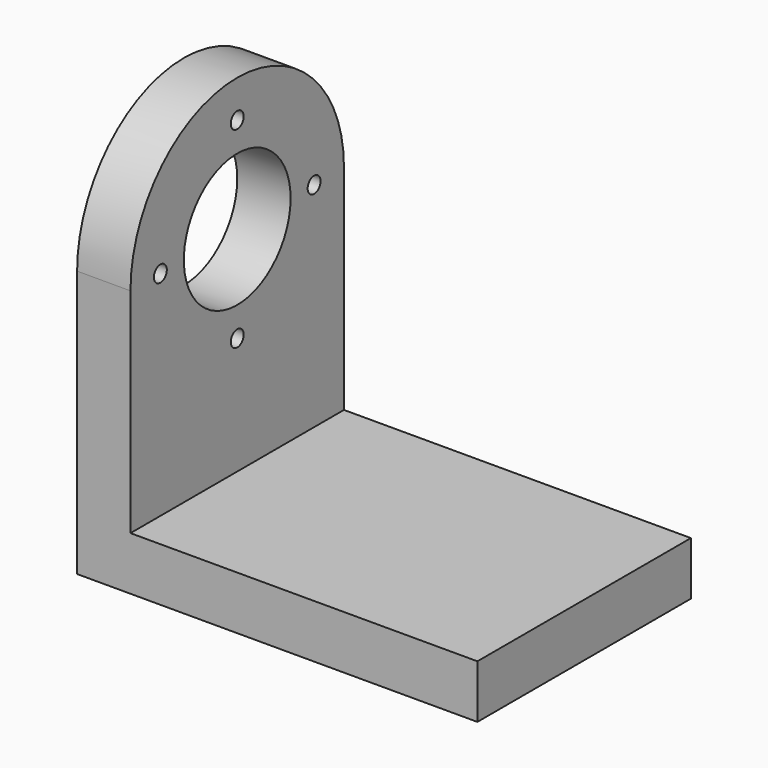
from build123d import *

# Parameters (mm, degrees)
F0_W     = 300
F0_H     = 40
F1_DEPTH = 200
F2_W     = 40
F2_H     = 200
F3_DEPTH = 260
F5_DEPTH = 40.001
F6_R     = 50
F7_DEPTH = 40.001
F8_D     = 12.1


with BuildPart() as f1:
    # F0 (on Front) → F1 (new body)
    with BuildSketch(Plane.XZ):
        with Locations((22.9622232423, 20)):
            Rectangle(F0_W, F0_H)
    extrude(amount=F1_DEPTH)

    # F2 (on face) → F3 (join)
    with BuildSketch(Plane.XY.offset(40)):
        with Locations((-107.0377767577, -100)):
            Rectangle(F2_W, F2_H)
    extrude(amount=F3_DEPTH)

    # F4 (on face) → F5 (cut, through all)
    with BuildSketch(Plane.YZ.offset(-87.0377767577)):
        with BuildLine():
            ThreePointArc((-200, 199.8689621687), (-100, 299.8689621687), (0, 199.8689621687))
            Line((0, 199.8689621687), (0, 300))
            Line((0, 300), (-200, 300))
            Line((-200, 300), (-200, 199.8689621687))
        make_face()
        with BuildLine():
            ThreePointArc((-200, 199.8689621687), (-100, 299.8689621687), (0, 199.8689621687))
            Line((0, 199.8689621687), (0, 300))
            Line((0, 300), (-200, 300))
            Line((-200, 300), (-200, 199.8689621687))
        make_face()
        with BuildLine():
            ThreePointArc((-200, 199.8689621687), (-100, 299.8689621687), (0, 199.8689621687))
            Line((0, 199.8689621687), (0, 300))
            Line((0, 300), (-200, 300))
            Line((-200, 300), (-200, 199.8689621687))
        make_face()
    extrude(amount=-F5_DEPTH, mode=Mode.SUBTRACT)

    # F6 (on face) → F7 (cut, through all)
    with BuildSketch(Plane.YZ.offset(-87.0377767577)):
        with Locations((-100, 199.8689621687)):
            Circle(F6_R)
    extrude(amount=-F7_DEPTH, mode=Mode.SUBTRACT)

    # F8 (through all)
    with Locations(Plane.YZ.offset(-87.0377767577)):
        with Locations((-100, 271.8689621687), (-172, 199.8689621687), (-100, 127.8689621687), (-28, 199.8689621687)):
            Hole(F8_D / 2)


solid = f1.part
